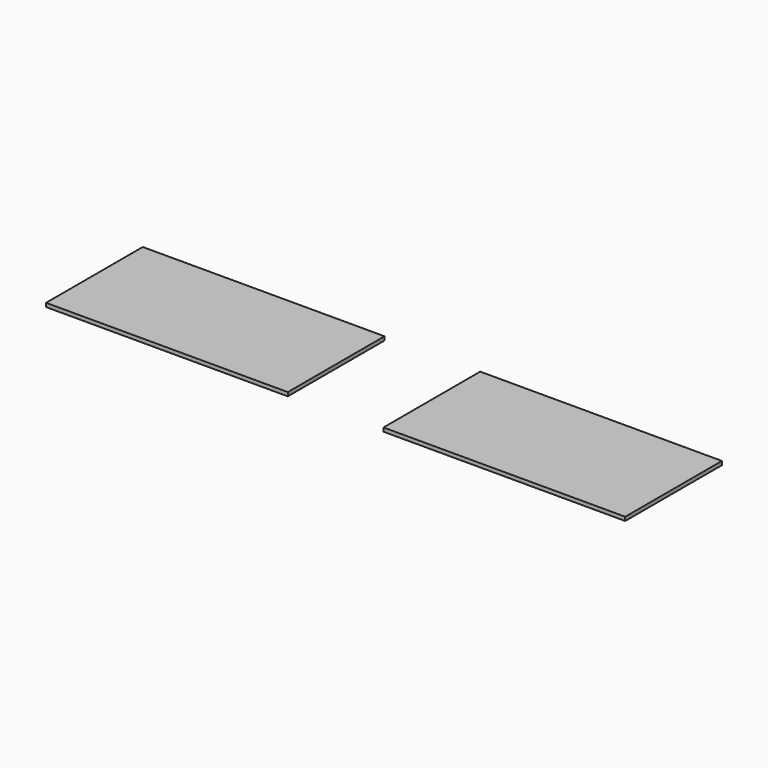
from build123d import *

# Parameters (mm, degrees)
F0_W     = 1219.2
F0_H     = 609.6
F1_DEPTH = 19.05
F2_W     = 1219.2
F2_H     = 609.6
F3_DEPTH = 19.05


with BuildPart() as f1:
    # F0 (on Top) → F1 (new body)
    with BuildSketch(Plane.XY):
        with Locations((609.6, 304.8)):
            Rectangle(F0_W, F0_H)
    extrude(amount=F1_DEPTH)


with BuildPart() as f3:
    # F2 (on face) → F3 (new body)
    with BuildSketch(Plane.XY.offset(19.05)):
        with Locations((-1092.2, 304.8)):
            Rectangle(F2_W, F2_H)
    extrude(amount=-F3_DEPTH)


solid = Compound([f1.part, f3.part])
